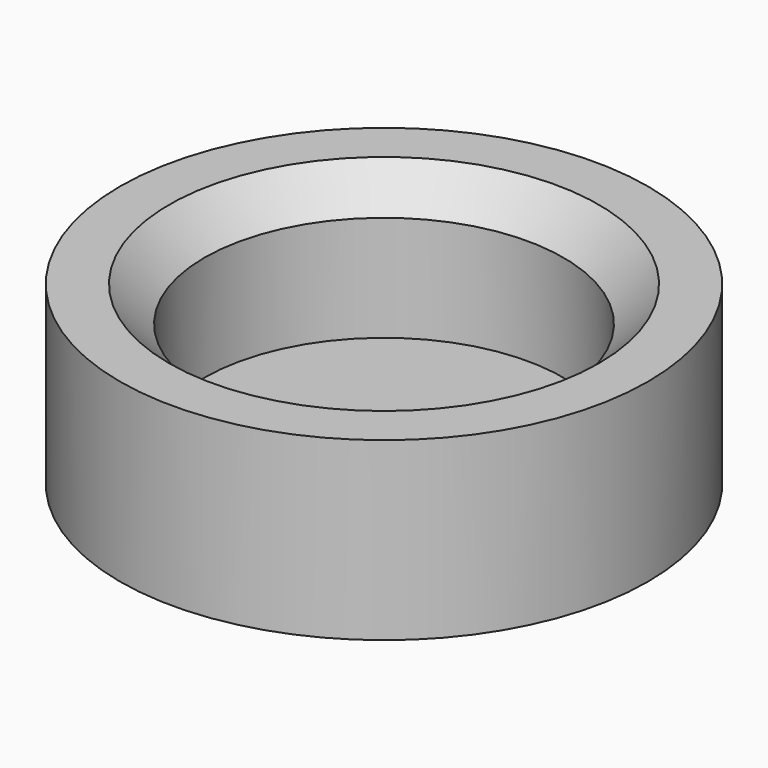
from build123d import *

# Parameters (mm, degrees)
SKETCH_R     = 7.5
PAD_DEPTH    = 5
SKETCH001_R  = 5.1
POCKET_DEPTH = 4
CHAMFER_SIZE = 1


with BuildPart() as part:
    # Sketch → Pad (new body)
    with BuildSketch(Plane.XY):
        Circle(SKETCH_R)
    extrude(amount=-PAD_DEPTH)

    # Sketch001 → Pocket (cut)
    with BuildSketch(Plane.XY):
        Circle(SKETCH001_R)
    extrude(amount=-POCKET_DEPTH, mode=Mode.SUBTRACT)

    # Chamfer
    chamfer_edges = [part.edges().sort_by_distance(p)[0] for p in [
        (-5.1, 0, 0),
    ]]
    chamfer(chamfer_edges, length=CHAMFER_SIZE)


solid = part.part
